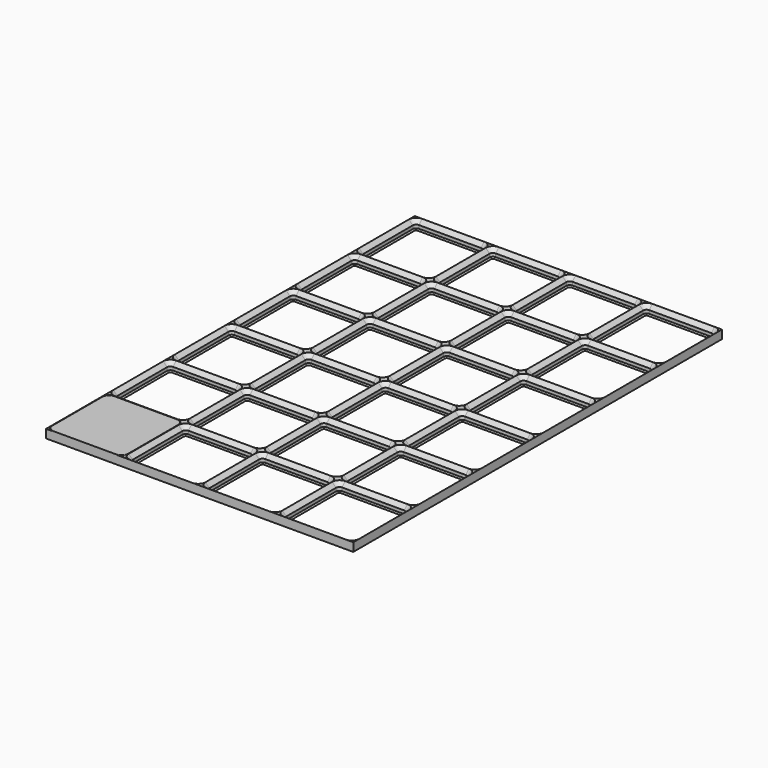
from build123d import *

# Parameters (mm, degrees)
SKETCH002_W            = 42
SKETCH002_H            = 42
LINEARPATTERN_COUNT    = 4
LINEARPATTERN_PITCH    = 42
LINEARPATTERN001_COUNT = 6
LINEARPATTERN001_PITCH = 42


with BuildPart() as base:
    # AdditivePipe: sweep along a path in Sketch003
    with BuildLine(Plane.XZ) as additivepipe_path:
        Line((-18.15, 0), (-18.15, -4.65))
    # Sketch002 → AdditivePipe (sweep)
    with BuildSketch(Plane.XY):
        Rectangle(SKETCH002_W, SKETCH002_H)
        with BuildLine():
            Line((-17, -18.15), (17, -18.15))
            ThreePointArc((17, -18.15), (17.813173, -17.813173), (18.15, -17))
            Line((18.15, -17), (18.15, 17))
            ThreePointArc((18.15, 17), (17.813173, 17.813173), (17, 18.15))
            Line((17, 18.15), (-17, 18.15))
            ThreePointArc((-17, 18.15), (-17.813173, 17.813173), (-18.15, 17))
            Line((-18.15, 17), (-18.15, -17))
            ThreePointArc((-18.15, -17), (-17.813173, -17.813173), (-17, -18.15))
        make_face(mode=Mode.SUBTRACT)
    sweep(path=additivepipe_path.line)

    # SubtractivePipe: sweep along a path in Sketch001
    with BuildLine(Plane.XY) as subtractivepipe_path:
        Line((21, -17), (21, 17))
        ThreePointArc((21, 17), (19.828427, 19.828427), (17, 21))
        Line((17, 21), (-17, 21))
        ThreePointArc((-17, 21), (-19.828427, 19.828427), (-21, 17))
        Line((-21, 17), (-21, -17))
        ThreePointArc((-21, -17), (-19.828427, -19.828427), (-17, -21))
        Line((-17, -21), (17, -21))
        ThreePointArc((17, -21), (19.828427, -19.828427), (21, -17))
    # Sketch → SubtractivePipe (sweep, cut)
    with BuildSketch(Plane.XZ):
        Polygon((-21, 0), (-18.85, -2.15), (-18.85, -3.95), (-18.15, -4.65), (-18.15, 0), align=None)
    sweep(path=subtractivepipe_path.line, mode=Mode.SUBTRACT)

    # LinearPattern: Base ×4


with BuildPart() as base_1:
    add(base.part)
    with Locations(*[(i * LINEARPATTERN_PITCH, 0, 0) for i in range(1, LINEARPATTERN_COUNT)]):
        add(base.part)

    # LinearPattern001: Base ×6


with BuildPart() as base_2:
    add(base_1.part)
    with Locations(*[(0, i * LINEARPATTERN001_PITCH, 0) for i in range(1, LINEARPATTERN001_COUNT)]):
        add(base_1.part)


with BuildPart() as basketfoot:
    # AdditivePipe001: sweep along a path in Sketch007
    with BuildLine(Plane.XZ) as additivepipe001_path:
        Line((-21, 0), (-21, -4.65))
    # Sketch006 → AdditivePipe001 (sweep)
    with BuildSketch(Plane.XY):
        with BuildLine():
            Line((-17, -20.75), (17, -20.75))
            ThreePointArc((17, -20.75), (19.65165, -19.65165), (20.75, -17))
            Line((20.75, -17), (20.75, 17))
            ThreePointArc((20.75, 17), (19.65165, 19.65165), (17, 20.75))
            Line((17, 20.75), (-17, 20.75))
            ThreePointArc((-17, 20.75), (-19.65165, 19.65165), (-20.75, 17))
            Line((-20.75, 17), (-20.75, -17))
            ThreePointArc((-20.75, -17), (-19.65165, -19.65165), (-17, -20.75))
        make_face()
    sweep(path=additivepipe001_path.line)

    # SubtractivePipe001: sweep along a path in Sketch005
    with BuildLine(Plane.XY) as subtractivepipe001_path:
        Line((-17, -21), (17, -21))
        ThreePointArc((17, -21), (19.828427, -19.828427), (21, -17))
        Line((21, -17), (21, 17))
        ThreePointArc((21, 17), (19.828427, 19.828427), (17, 21))
        Line((17, 21), (-17, 21))
        ThreePointArc((-17, 21), (-19.828427, 19.828427), (-21, 17))
        Line((-21, 17), (-21, -17))
        ThreePointArc((-21, -17), (-19.828427, -19.828427), (-17, -21))
    # Sketch004 → SubtractivePipe001 (sweep, cut)
    with BuildSketch(Plane.XZ):
        Polygon((-21, 0), (-18.85, -2.15), (-18.85, -3.95), (-18.15, -4.65), (-21, -4.65), align=None)
    sweep(path=subtractivepipe001_path.line, mode=Mode.SUBTRACT)


solid = Compound([base_2.part, basketfoot.part])
